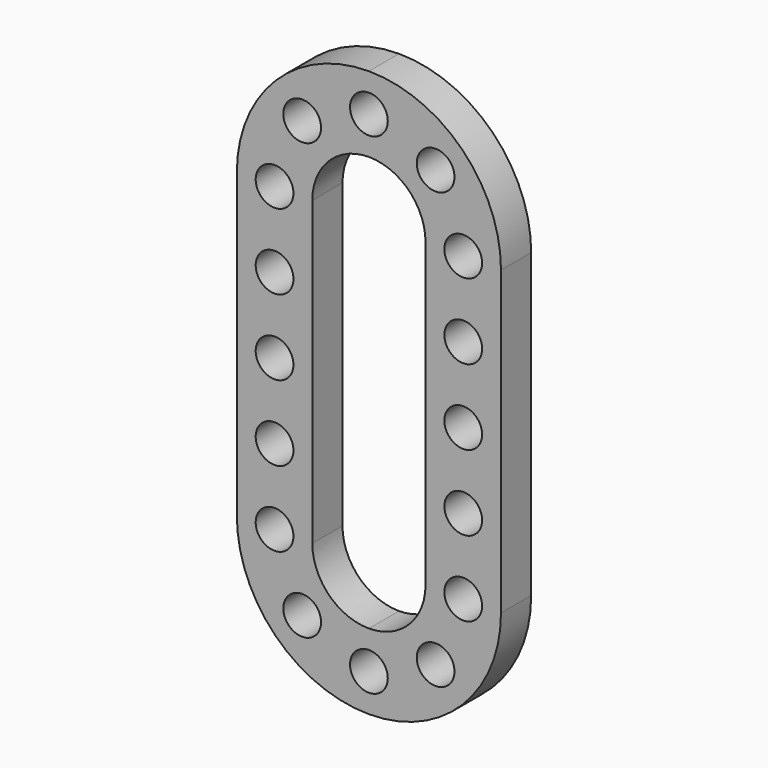
from build123d import *

# Parameters (mm, degrees)
F0_R     = 5
F1_DEPTH = 10


with BuildPart() as f1:
    # F0 (on Front) → F1 (new body)
    with BuildSketch(Plane.XZ):
        with BuildLine():
            ThreePointArc((0, 75), (-24.748737, 64.748737), (-35, 40))
            Line((-35, 40), (-35, 0))
            Line((-35, 0), (-35, -40))
            ThreePointArc((-35, -40), (-24.748737, -64.748737), (0, -75))
            ThreePointArc((0, -75), (24.748737, -64.748737), (35, -40))
            Line((35, -40), (35, 0))
            Line((35, 0), (35, 40))
            ThreePointArc((35, 40), (24.748737, 64.748737), (0, 75))
        make_face()
        with Locations((-17.67767, -57.67767)):
            Circle(F0_R, mode=Mode.SUBTRACT)
        with Locations((-25, -40)):
            Circle(F0_R, mode=Mode.SUBTRACT)
        with Locations((-25, -20)):
            Circle(F0_R, mode=Mode.SUBTRACT)
        with Locations((0, -65)):
            Circle(F0_R, mode=Mode.SUBTRACT)
        with Locations((17.67767, -57.67767)):
            Circle(F0_R, mode=Mode.SUBTRACT)
        with Locations((25, -40)):
            Circle(F0_R, mode=Mode.SUBTRACT)
        with Locations((25, -20)):
            Circle(F0_R, mode=Mode.SUBTRACT)
        with Locations((-25, 0)):
            Circle(F0_R, mode=Mode.SUBTRACT)
        with Locations((-25, 20)):
            Circle(F0_R, mode=Mode.SUBTRACT)
        with Locations((-25, 40)):
            Circle(F0_R, mode=Mode.SUBTRACT)
        with Locations((-17.67767, 57.67767)):
            Circle(F0_R, mode=Mode.SUBTRACT)
        with BuildLine():
            ThreePointArc((-15, 40), (-10.606602, 50.606602), (0, 55))
            ThreePointArc((0, 55), (10.606602, 50.606602), (15, 40))
            Line((15, 40), (15, 0))
            Line((15, 0), (15, -40))
            ThreePointArc((15, -40), (10.606602, -50.606602), (0, -55))
            ThreePointArc((0, -55), (-10.606602, -50.606602), (-15, -40))
            Line((-15, -40), (-15, 0))
            Line((-15, 0), (-15, 40))
        make_face(mode=Mode.SUBTRACT)
        with Locations((25, 0)):
            Circle(F0_R, mode=Mode.SUBTRACT)
        with Locations((25, 20)):
            Circle(F0_R, mode=Mode.SUBTRACT)
        with Locations((0, 65)):
            Circle(F0_R, mode=Mode.SUBTRACT)
        with Locations((25, 40)):
            Circle(F0_R, mode=Mode.SUBTRACT)
        with Locations((17.67767, 57.67767)):
            Circle(F0_R, mode=Mode.SUBTRACT)
    extrude(amount=F1_DEPTH)


solid = f1.part
